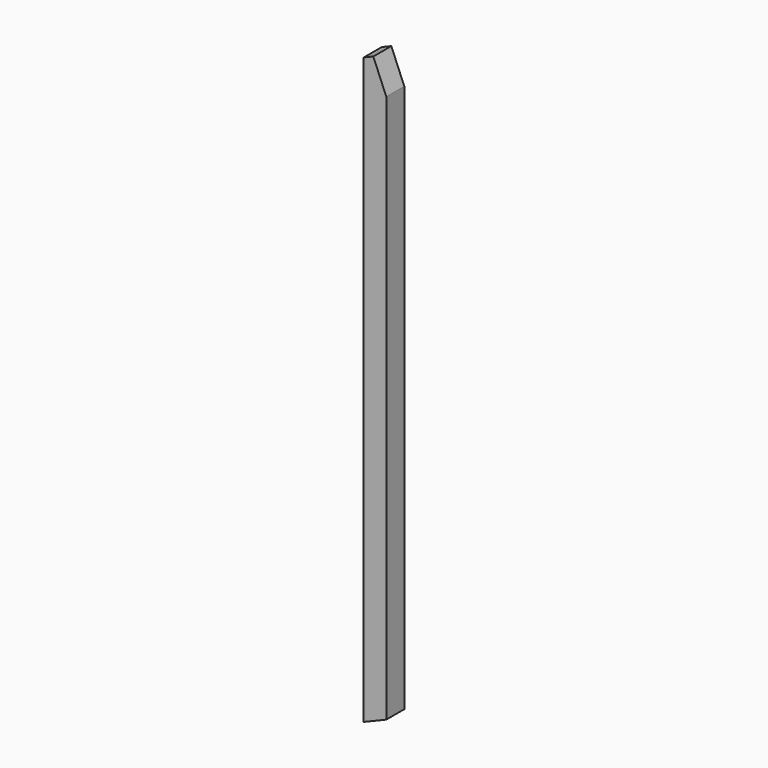
from build123d import *

# Parameters (mm, degrees)
F0_W     = 101.6
F0_H     = 101.6
F1_DEPTH = 3048
F3_DEPTH = 101.601
F5_DEPTH = 101.601
F7_DEPTH = 101.601


with BuildPart() as f1:
    # F0 (on Top) → F1 (new body)
    with BuildSketch(Plane.XY):
        with Locations((50.8, 50.8)):
            Rectangle(F0_W, F0_H)
    extrude(amount=F1_DEPTH)

    # F2 (on Front) → F3 (cut, through all)
    with BuildSketch(Plane.XZ):
        Polygon((101.6, 42.0840979371), (0, 0), (101.6, 0), align=None)
    extrude(amount=-F3_DEPTH, mode=Mode.SUBTRACT)

    # F4 (on face) → F5 (cut, through all)
    with BuildSketch(Plane.XZ):
        Polygon((0, 3048), (0, 2639.314), (101.6, 2681.3980979371), (101.6, 3048), align=None)
    extrude(amount=-F5_DEPTH, mode=Mode.SUBTRACT)

    # F6 (on face) → F7 (cut, through all)
    with BuildSketch(Plane.XZ):
        Polygon((101.6, 2681.3980979371), (43.2856477874, 2657.2435023697), (101.6, 2516.460202377), align=None)
    extrude(amount=-F7_DEPTH, mode=Mode.SUBTRACT)


solid = f1.part
